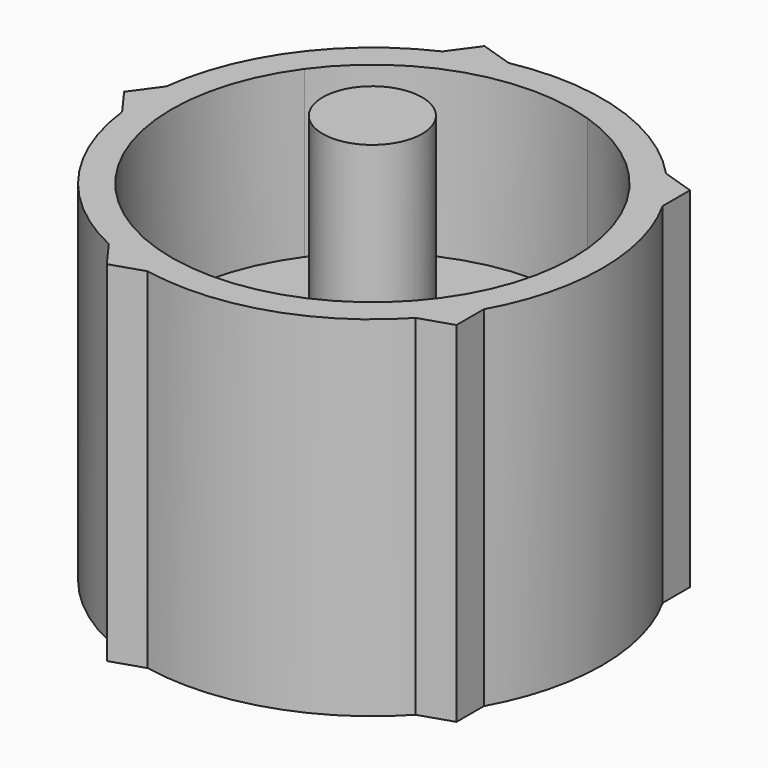
from build123d import *

# Parameters (mm, degrees)
F1_DEPTH = 9.5
F0_R     = 2.7
F2_DEPTH = 12.75
F3_DEPTH = 0.5


with BuildPart() as f1:
    # F0 (on Top) → F1 (new body, symmetric)
    with BuildSketch(Plane.XY):
        with BuildLine():
            Line((10.9217294241, 6.0799529679), (10.9217294241, 7.9351009059))
            Line((10.9217294241, 7.9351009059), (9.1573788889, 8.5083731459))
            ThreePointArc((9.1573788889, 8.5083731459), (10.1127124848, 7.3473156937), (10.9217294241, 6.0799529679))
        make_face()
        with BuildLine():
            ThreePointArc((12.5000000682, 0), (12.0990003771, 3.1407310581), (10.9217294241, 6.0799529679))
            Line((10.9217294241, 6.0799529679), (10.9217294241, 0))
            Line((10.9217294241, 0), (10.9217294241, -6.0799529679))
            ThreePointArc((10.9217294241, -6.0799529679), (12.0990003771, -3.1407310581), (12.5000000682, 0))
        make_face()
        with BuildLine():
            Line((10.9217294241, 0), (10.9217294241, 6.0799529679))
            ThreePointArc((10.9217294241, 6.0799529679), (10.1127124848, 7.3473156937), (9.1573788889, 8.5083731459))
            Line((9.1573788889, 8.5083731459), (3.3749999593, 10.3871819512))
            ThreePointArc((3.3749999593, 10.3871819512), (8.8358646995, 6.4196315023), (10.9217294241, 0))
        make_face()
        with BuildLine():
            Line((3.3749999593, 10.3871819512), (9.1573788889, 8.5083731459))
            ThreePointArc((9.1573788889, 8.5083731459), (3.8627124507, 11.8882065185), (-2.4073788889, 12.26599073))
            Line((-2.4073788889, 12.26599073), (3.3749999593, 10.3871819512))
        make_face()
        with BuildLine():
            Line((10.9217294241, -6.0799529679), (10.9217294241, 0))
            ThreePointArc((10.9217294241, 0), (8.8358646995, -6.4196315023), (3.3749999593, -10.3871819512))
            Line((3.3749999593, -10.3871819512), (9.1573788889, -8.5083731459))
            ThreePointArc((9.1573788889, -8.5083731459), (10.1127124848, -7.3473156937), (10.9217294241, -6.0799529679))
        make_face()
        with BuildLine():
            ThreePointArc((-8.8358646984, 6.4196315037), (-3.3750000093, 10.3871819349), (3.3749999593, 10.3871819512))
            Line((3.3749999593, 10.3871819512), (-2.4073788889, 12.26599073))
            ThreePointArc((-2.4073788889, 12.26599073), (-3.8627124507, 11.8882065185), (-5.2621580229, 11.338416761))
            Line((-5.2621580229, 11.338416761), (-8.8358646984, 6.4196315037))
        make_face()
        with BuildLine():
            ThreePointArc((-5.2621580229, 11.338416761), (-3.8627124507, 11.8882065185), (-2.4073788889, 12.26599073))
            Line((-2.4073788889, 12.26599073), (-4.1717294241, 12.83926297))
            Line((-4.1717294241, 12.83926297), (-5.2621580229, 11.338416761))
        make_face()
        with BuildLine():
            Line((10.9217294241, -7.9351009059), (10.9217294241, -6.0799529679))
            ThreePointArc((10.9217294241, -6.0799529679), (10.1127124848, -7.3473156937), (9.1573788889, -8.5083731459))
            Line((9.1573788889, -8.5083731459), (10.9217294241, -7.9351009059))
        make_face()
        with BuildLine():
            Line((9.1573788889, -8.5083731459), (3.3749999593, -10.3871819512))
            Line((3.3749999593, -10.3871819512), (-2.4073788889, -12.26599073))
            ThreePointArc((-2.4073788889, -12.26599073), (3.8627124507, -11.8882065185), (9.1573788889, -8.5083731459))
        make_face()
        with BuildLine():
            Line((-2.4073788889, -12.26599073), (3.3749999593, -10.3871819512))
            ThreePointArc((3.3749999593, -10.3871819512), (-3.3749999125, -10.3871819664), (-8.8358645787, -6.4196316685))
            Line((-8.8358645787, -6.4196316685), (-5.2621580229, -11.338416761))
            ThreePointArc((-5.2621580229, -11.338416761), (-3.8627124507, -11.8882065185), (-2.4073788889, -12.26599073))
        make_face()
        with BuildLine():
            ThreePointArc((-8.8358645787, -6.4196316685), (-10.9217294241, -1.018e-07), (-8.8358646984, 6.4196315037))
            Line((-8.8358646984, 6.4196315037), (-12.4095714012, 1.500846209))
            ThreePointArc((-12.4095714012, 1.500846209), (-12.5000000682, 0), (-12.4095714012, -1.500846209))
            Line((-12.4095714012, -1.500846209), (-8.8358645787, -6.4196316685))
        make_face()
        with BuildLine():
            Line((-12.4095714012, 1.500846209), (-8.8358646984, 6.4196315037))
            Line((-8.8358646984, 6.4196315037), (-5.2621580229, 11.338416761))
            ThreePointArc((-5.2621580229, 11.338416761), (-10.1127124848, 7.3473156937), (-12.4095714012, 1.500846209))
        make_face()
        with BuildLine():
            Line((-4.1717294241, -12.83926297), (-2.4073788889, -12.26599073))
            ThreePointArc((-2.4073788889, -12.26599073), (-3.8627124507, -11.8882065185), (-5.2621580229, -11.338416761))
            Line((-5.2621580229, -11.338416761), (-4.1717294241, -12.83926297))
        make_face()
        with BuildLine():
            Line((-5.2621580229, -11.338416761), (-8.8358645787, -6.4196316685))
            Line((-8.8358645787, -6.4196316685), (-12.4095714012, -1.500846209))
            ThreePointArc((-12.4095714012, -1.500846209), (-10.1127124848, -7.3473156937), (-5.2621580229, -11.338416761))
        make_face()
        with BuildLine():
            ThreePointArc((-12.4095714012, -1.500846209), (-12.5000000682, 0), (-12.4095714012, 1.500846209))
            Line((-12.4095714012, 1.500846209), (-13.5, 0))
            Line((-13.5, 0), (-12.4095714012, -1.500846209))
        make_face()
    extrude(amount=F1_DEPTH, both=True)



with BuildPart() as f1b:
    # F0 (on Top) → F1, piece 2 (new body, symmetric)
    with BuildSketch(Plane.XY):
        Circle(F0_R)
    extrude(amount=F1_DEPTH, both=True)

    # F0 (on Top) → F2 (join, symmetric)
    with BuildSketch(Plane.XY):
        Circle(F0_R)
    extrude(amount=F2_DEPTH, both=True)


with BuildPart() as f1_1:
    add(f1.part)

    add(f1b.part)  # F3 merges F1b
    # F0 (on Top) → F3 (join, symmetric)
    with BuildSketch(Plane.XY):
        with BuildLine():
            ThreePointArc((3.3749999593, -10.3871819512), (8.8358646995, -6.4196315023), (10.9217294241, 0))
            ThreePointArc((10.9217294241, 0), (8.8358646995, 6.4196315023), (3.3749999593, 10.3871819512))
            ThreePointArc((3.3749999593, 10.3871819512), (-3.3750000093, 10.3871819349), (-8.8358646984, 6.4196315037))
            ThreePointArc((-8.8358646984, 6.4196315037), (-10.9217294241, -1.018e-07), (-8.8358645787, -6.4196316685))
            ThreePointArc((-8.8358645787, -6.4196316685), (-3.3749999125, -10.3871819664), (3.3749999593, -10.3871819512))
        make_face()
        Circle(F0_R, mode=Mode.SUBTRACT)
    extrude(amount=F3_DEPTH, both=True)


solid = f1_1.part
